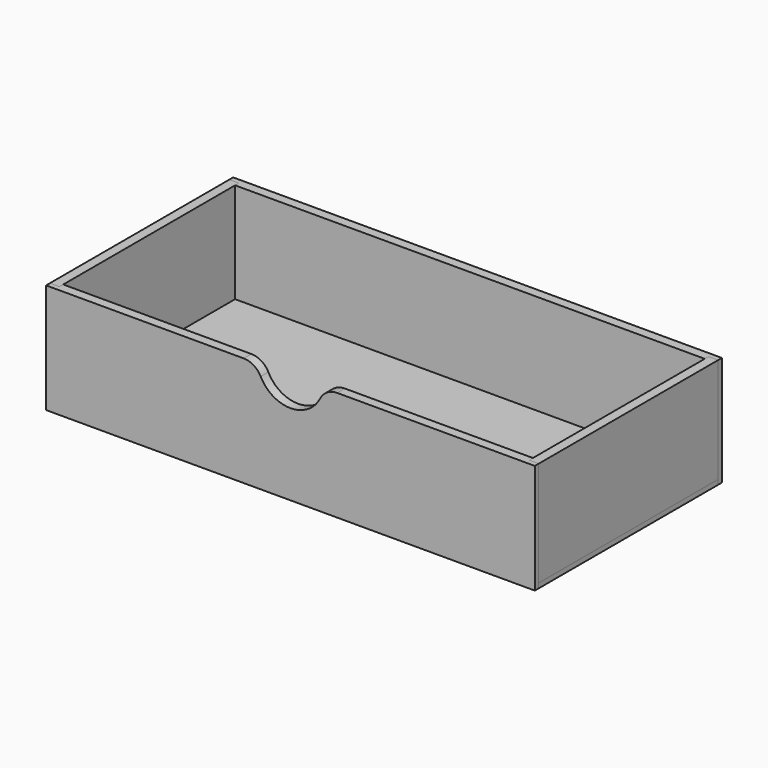
from build123d import *

# Parameters (mm, degrees)
F0_W      = 256
F0_H      = 57.5
F1_DEPTH  = 2.5
F2_W      = 246
F2_H      = 55
F3_DEPTH  = 2.5
F4_R      = 17.5
F5_DEPTH  = 25
F6_R      = 10
F7_W      = 117.5
F7_H      = 55
F8_DEPTH  = 5
F10_W     = 256
F10_H     = 57.5
F11_DEPTH = 2.5
F12_W     = 246
F12_H     = 55
F13_DEPTH = 2.5
F14_W     = 256
F14_H     = 117.5
F15_DEPTH = 2.5
F16_W     = 246
F16_H     = 112.5
F17_DEPTH = 2.5


with BuildPart() as f1:
    # F0 (on Front) → F1 (new body)
    with BuildSketch(Plane.XZ):
        with Locations((128, 28.75)):
            Rectangle(F0_W, F0_H)
    extrude(amount=F1_DEPTH)

    # F2 (on face) → F3 (join)
    with BuildSketch(Plane(origin=(0, 0, 0), x_dir=(-1, 0, 0), z_dir=(0, 1, 0))):
        with Locations((-128, 30)):
            Rectangle(F2_W, F2_H)
    extrude(amount=F3_DEPTH)

    # F4 (on face) → F5 (cut)
    with BuildSketch(Plane.XZ.offset(2.5)):
        with Locations((128, 60)):
            Circle(F4_R)
    extrude(amount=-F5_DEPTH, mode=Mode.SUBTRACT)

    # F6
    f6_edges = [f1.edges().sort_by_distance(p)[0] for p in [
        (110.679492, 0, 57.5),
        (145.320508, 0, 57.5),
    ]]
    fillet(f6_edges, radius=F6_R)


with BuildPart() as f8:
    # F7 (on face) → F8 (new body)
    with BuildSketch(Plane.YZ.offset(256)):
        with Locations((58.75, 30)):
            Rectangle(F7_W, F7_H)
    extrude(amount=-F8_DEPTH)


with BuildPart() as f9_1:
    # F9: copy of F8
    add(f8.part.moved(Location((-251, 0, 0))))


with BuildPart() as f11:
    # F10 (on face) → F11 (new body)
    with BuildSketch(Plane(origin=(0, 117.5, 0), x_dir=(-1, 0, 0), z_dir=(0, 1, 0))):
        with Locations((-128, 28.75)):
            Rectangle(F10_W, F10_H)
    extrude(amount=F11_DEPTH)

    # F12 (on face) → F13 (join)
    with BuildSketch(Plane.XZ.offset(-117.5)):
        with Locations((128, 30)):
            Rectangle(F12_W, F12_H)
    extrude(amount=F13_DEPTH)


with BuildPart() as f15:
    # F14 (on face) → F15 (new body)
    with BuildSketch(Plane(origin=(0, 0, 2.5), x_dir=(1, 0, 0), z_dir=(0, 0, -1))):
        with Locations((128, -58.75)):
            Rectangle(F14_W, F14_H)
    extrude(amount=F15_DEPTH)

    # F16 (on face) → F17 (join)
    with BuildSketch(Plane.XY.offset(2.5)):
        with Locations((128, 58.75)):
            Rectangle(F16_W, F16_H)
    extrude(amount=F17_DEPTH)


solid = Compound([f1.part, f8.part, f9_1.part, f11.part, f15.part])
